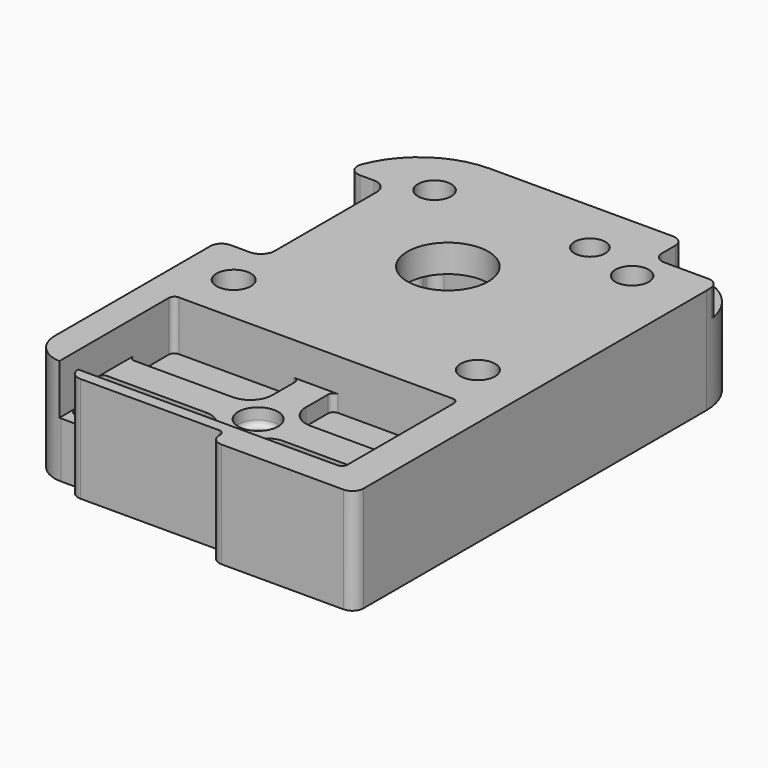
from build123d import *

# Parameters (mm, degrees)
SKETCH014_R             = 1.55
SKETCH014_R_2           = 1.5
SKETCH014_R_3           = 3.65
SKETCH014_R_4           = 1.4
SKETCH014_W             = 8
SKETCH014_H             = 3
SKETCH014_W_2           = 12.7
PAD002_DEPTH            = 9.5
POCKET009_DEPTH         = 7
POCKET008_DEPTH         = 10
POCKET010_DEPTH         = 4.5
POCKET013_DEPTH         = 4.5
SKETCH015_W             = 25.7
SKETCH015_H             = 13
POCKET014_DEPTH         = 3
POCKET011_DEPTH         = 2.5
SKETCH013_R             = 1.8
POCKET012_DEPTH         = 1.5
FILLET002_R             = 1
FILLET003_R             = 0.5
BODY002_PLACEMENT_ANGLE = 180


with BuildPart() as part:
    # Sketch014 → Pad002 (new body)
    with BuildSketch(Plane.XY):
        with BuildLine():
            Line((-11, 13.5), (7.5, 13.5))
            ThreePointArc((15.5, 5.5), (13.156854, 11.156854), (7.5, 13.5))
            Line((15.5, 5.5), (15.5, -25.53))
            ThreePointArc((12.7, -28.33), (14.679899, -27.509899), (15.5, -25.53))
            Line((11, -28.33), (12.7, -28.33))
            Line((11, -29.53), (11, -28.33))
            Line((-3, -29.53), (11, -29.53))
            Line((-3, -31.13), (-3, -29.53))
            Line((-3, -31.13), (-16, -31.13))
            Line((-16, -31.13), (-16, 8.5))
            ThreePointArc((-11, 13.5), (-14.535534, 12.035534), (-16, 8.5))
        make_face()
        with Locations((-11, -11)):
            Circle(SKETCH014_R, mode=Mode.SUBTRACT)
        with Locations((11, -11)):
            Circle(SKETCH014_R, mode=Mode.SUBTRACT)
        with Locations((8.5, 8.5)):
            Circle(SKETCH014_R_2, mode=Mode.SUBTRACT)
        with Locations((-10.5, 7)):
            Circle(SKETCH014_R_2, mode=Mode.SUBTRACT)
        with Locations((0.5, 0)):
            Circle(SKETCH014_R_3, mode=Mode.SUBTRACT)
        with Locations((-5.5, 8.5)):
            Circle(SKETCH014_R_4, mode=Mode.SUBTRACT)
        with Locations((-8.7, -25.79)):
            Rectangle(SKETCH014_W, SKETCH014_H, mode=Mode.SUBTRACT)
        with Locations((6.35, -25.79)):
            Rectangle(SKETCH014_W_2, SKETCH014_H, mode=Mode.SUBTRACT)
    extrude(amount=PAD002_DEPTH)

    # Sketch012 (on Face27 of Pad002) → Pocket009 (cut)
    with BuildSketch(Plane.XY.offset(9.5)):
        with BuildLine():
            Line((7.85, -4), (7.75, -4))
            ThreePointArc((7.75, -4), (7.042893, -4.292893), (6.75, -5))
            Line((6.75, -5), (6.75, -5.35))
            ThreePointArc((5.85, -6.25), (6.486396, -5.986396), (6.75, -5.35))
            Line((5.85, -6.25), (-4.85, -6.25))
            ThreePointArc((-5.75, -5.35), (-5.486396, -5.986396), (-4.85, -6.25))
            Line((-5.75, -5.35), (-5.75, -5))
            ThreePointArc((-5.75, -5), (-6.042893, -4.292893), (-6.75, -4))
            Line((-6.75, -4), (-6.85, -4))
            ThreePointArc((-7.75, -3.1), (-7.486396, -3.736396), (-6.85, -4))
            Line((-7.75, -3.1), (-7.75, 3.1))
            ThreePointArc((-6.85, 4), (-7.486396, 3.736396), (-7.75, 3.1))
            Line((-6.85, 4), (-6.75, 4))
            ThreePointArc((-6.75, 4), (-6.042893, 4.292893), (-5.75, 5))
            Line((-5.75, 5), (-5.75, 5.35))
            ThreePointArc((-4.85, 6.25), (-5.486396, 5.986396), (-5.75, 5.35))
            Line((-4.85, 6.25), (5.85, 6.25))
            ThreePointArc((6.75, 5.35), (6.486396, 5.986396), (5.85, 6.25))
            Line((6.75, 5.35), (6.75, 5))
            ThreePointArc((6.75, 5), (7.042893, 4.292893), (7.75, 4))
            Line((7.75, 4), (7.85, 4))
            ThreePointArc((8.75, 3.1), (8.486396, 3.736396), (7.85, 4))
            Line((8.75, 3.1), (8.75, -3.1))
            ThreePointArc((7.85, -4), (8.486396, -3.736396), (8.75, -3.1))
        make_face()
    extrude(amount=-POCKET009_DEPTH, mode=Mode.SUBTRACT)

    # Sketch016 (on Face5 of Pocket009) → Pocket008 (cut)
    with BuildSketch(Plane.XY.offset(9.5)):
        with BuildLine():
            Line((12.75, 7), (16.5, 7))
            Line((16.5, 7), (16.5, -7))
            Line((16.5, -7), (12.75, -7))
            ThreePointArc((11.5, -5.75), (11.866117, -6.633883), (12.75, -7))
            Line((11.5, -5.75), (11.5, 5.75))
            ThreePointArc((12.75, 7), (11.866117, 6.633883), (11.5, 5.75))
        make_face()
    extrude(amount=-POCKET008_DEPTH, mode=Mode.SUBTRACT)

    # Sketch017 (on Face5 of Pocket008) → Pocket010 (cut)
    with BuildSketch(Plane.XY.offset(9.5)):
        Polygon((-8.1, -12.674316), (-8.1, -9.325684), (-11, -7.651368), (-13.9, -9.325684), (-13.9, -12.674316), (-11, -14.348632), align=None)
        Polygon((13.9, -12.674316), (13.9, -9.325684), (11, -7.651368), (8.1, -9.325684), (8.1, -12.674316), (11, -14.348632), align=None)
    extrude(amount=-POCKET010_DEPTH, mode=Mode.SUBTRACT)

    # Sketch018 (on Face5 of Pocket010) → Pocket013 (cut)
    with BuildSketch(Plane.XY.offset(9.5)):
        Polygon((-7.85, 5.470022), (-7.85, 8.529978), (-10.5, 10.059956), (-13.15, 8.529978), (-13.15, 5.470022), (-10.5, 3.940044), align=None)
    extrude(amount=-POCKET013_DEPTH, mode=Mode.SUBTRACT)

    # Sketch015 (on Face4 of Pocket013) → Pocket014 (cut)
    with BuildSketch(Plane(origin=(0, 0, 0), x_dir=(1, 0, 0), z_dir=(0, 0, -1))):
        with Locations((0, 22)):
            Rectangle(SKETCH015_W, SKETCH015_H)
    extrude(amount=-POCKET014_DEPTH, mode=Mode.SUBTRACT)

    # Sketch019 → Pocket011 (cut)
    with BuildSketch(Plane(origin=(0, 0, 0), x_dir=(1, 0, 0), z_dir=(0, 0, -1))):
        with BuildLine():
            Line((-16, -10), (-11, -10))
            ThreePointArc((-10, -11), (-10.292893, -10.292893), (-11, -10))
            Line((-10, -11), (-10, -14))
            Line((-10, -14), (-16, -14))
            Line((-16, -14), (-16, -10))
        make_face()
    extrude(amount=-POCKET011_DEPTH, mode=Mode.SUBTRACT)

    # Sketch013 (on Face83 of Pocket011) → Pocket012 (cut)
    with BuildSketch(Plane(origin=(0, 0, 3), x_dir=(1, 0, 0), z_dir=(0, 0, -1))):
        with Locations((0, 22)):
            Circle(SKETCH013_R)
        with BuildLine():
            Line((-12.85, 20.5), (-3.5, 20.5))
            ThreePointArc((-1.5, 18.5), (-2.085786, 19.914214), (-3.5, 20.5))
            Line((-1.5, 18.5), (-1.5, 15.5))
            Line((-1.5, 15.5), (-12.85, 15.5))
            Line((-12.85, 15.5), (-12.85, 20.5))
        make_face()
        with BuildLine():
            Line((1.5, 15.5), (12.85, 15.5))
            Line((12.85, 15.5), (12.85, 20.5))
            Line((12.85, 20.5), (3.5, 20.5))
            ThreePointArc((3.5, 20.5), (2.085786, 19.914214), (1.5, 18.5))
            Line((1.5, 18.5), (1.5, 15.5))
        make_face()
        with BuildLine():
            Line((-12.85, 23.5), (-3.5, 23.5))
            ThreePointArc((-3.5, 23.5), (-2.085786, 24.085786), (-1.5, 25.5))
            Line((-1.5, 25.5), (-1.5, 28.5))
            Line((-1.5, 28.5), (-12.85, 28.5))
            Line((-12.85, 28.5), (-12.85, 23.5))
        make_face()
        with BuildLine():
            Line((1.5, 28.5), (12.85, 28.5))
            Line((12.85, 28.5), (12.85, 23.5))
            Line((12.85, 23.5), (3.5, 23.5))
            ThreePointArc((1.5, 25.5), (2.085786, 24.085786), (3.5, 23.5))
            Line((1.5, 25.5), (1.5, 28.5))
        make_face()
    extrude(amount=-POCKET012_DEPTH, mode=Mode.SUBTRACT)

    # Fillet002
    fillet002_edges = [part.edges().sort_by_distance(p)[0] for p in [
        (15.358117, 7, 4.75),
        (15.5, -7, 4.75),
        (11, -29.53, 4.75),
        (-3, -31.13, 4.75),
        (-16, -31.13, 4.75),
        (-15.769696, 10, 1.25),
        (-10, 13.5, 1.25),
    ]]
    fillet(fillet002_edges, radius=FILLET002_R)

    # Fillet003
    fillet003_edges = [part.edges().sort_by_distance(p)[0] for p in [
        (-3, -29.53, 4.75),
        (-12.85, -15.5, 1.5),
        (-12.85, -15.5, 3.75),
        (1.5, -15.5, 3.75),
        (-12.85, -23.5, 3.75),
        (-12.85, -28.5, 3.75),
        (-12.85, -28.5, 1.5),
        (-12.85, -20.5, 3.75),
        (-12.7, -27.29, 7),
        (-1.5, -15.5, 3.75),
        (-4.7, -24.29, 7),
        (-4.7, -27.29, 7),
        (-12.7, -24.29, 7),
        (-1.5, -28.5, 3.75),
        (1.5, -28.5, 3.75),
        (1.5, -27.29, 3.75),
        (0, -27.29, 6.25),
        (0, -24.29, 6.25),
        (1.907549, -24.29, 3.75),
        (12.85, -20.5, 3.75),
        (12.7, -27.29, 7),
        (12.85, -23.5, 3.75),
        (12.85, -15.5, 3.75),
        (12.85, -15.5, 1.5),
        (12.7, -24.29, 7),
        (-1.8, -22, 4.5),
    ]]
    fillet(fillet003_edges, radius=FILLET003_R)


with BuildPart() as part_1:
    # Body002 placement: moved
    add(part.part.moved(Location((-62, 35, 110))).rotate(Axis((-62, 35, 110), (0, 1, 0)), BODY002_PLACEMENT_ANGLE))


solid = part_1.part
